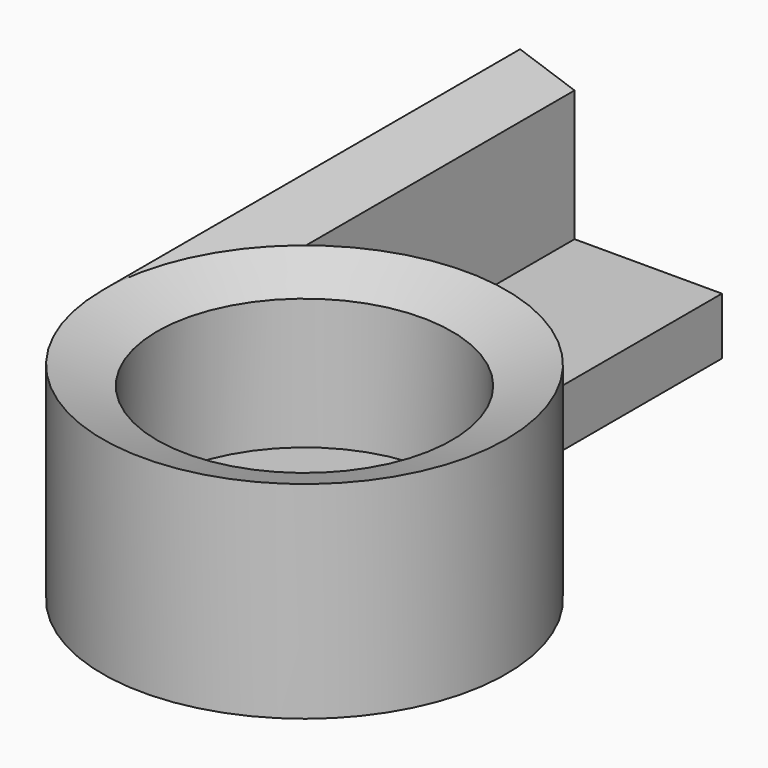
from build123d import *

# Parameters (mm, degrees)
F1_DEPTH = 152.4


with BuildPart() as f1:
    # F0 (on Front) → F1 (new body)
    with BuildSketch(Plane.XZ):
        Polygon((-58.954738, 0), (0, 0), (0, 16.688244), (-43.046318, 16.688244), (-43.046318, 30.101229), (-43.046318, 54.935103), (-58.954738, 60.358422), align=None)
    extrude(amount=F1_DEPTH)

    # F1_face (on face) → F2 (revolve)
    with BuildSketch(Plane(origin=(-38.122493, -152.4, 19.839762), x_dir=(1, 0, 0), z_dir=(0, -1, 0))):
        Polygon((-20.832245, 40.51866), (-20.832245, -19.839762), (38.122493, -19.839762), (38.122493, -3.151518), (-4.923825, -3.151518), (-4.923825, 35.095341), align=None)
    revolve(axis=Axis((0, -152.4, 8.344122), (0, 0, -1)))


solid = f1.part
